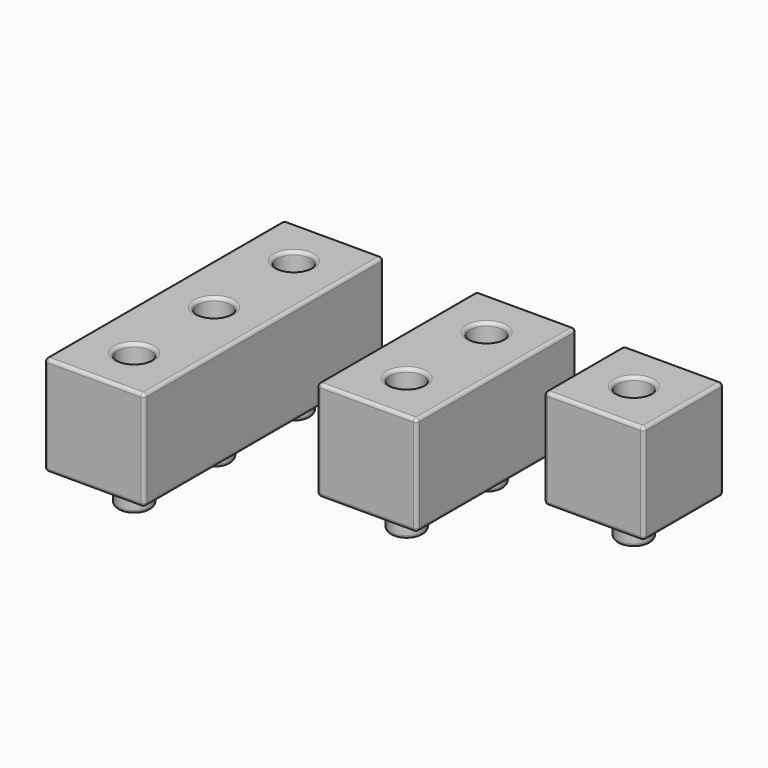
from build123d import *

# Parameters (mm, degrees)
F0_W          = 38.1
F0_H          = 114.3
F0_R          = 6.35
F1_DEPTH      = 38.1
F0_H_2        = 76.2
F2_DEPTH      = 38.1
F0_H_3        = 38.1
F3_DEPTH      = 38.1
F4_DEPTH      = 19.05
F4_DEPTH_BACK = 12.7
F5_R          = 1.27
F5_2_R        = 1.27
F5_3_R        = 1.27
F5_4_R        = 1.27


with BuildPart() as f1:
    # F0 (on Top) → F1 (new body)
    with BuildSketch(Plane.XY):
        with Locations((-19.05, 22.224996)):
            Rectangle(F0_W, F0_H)
        with Locations((-19.05, -15.875004)):
            Circle(F0_R, mode=Mode.SUBTRACT)
        with Locations((-19.05, 22.224996)):
            Circle(F0_R, mode=Mode.SUBTRACT)
        with Locations((-19.05, 60.324996)):
            Circle(F0_R, mode=Mode.SUBTRACT)
    extrude(amount=F1_DEPTH)

    # F5
    f5_edges = [f1.edges().sort_by_distance(p)[0] for p in [
        (0, 79.374996, 19.05),
        (-38.1, 79.374996, 19.05),
        (-19.05, 79.374996, 0),
        (-19.05, 79.374996, 38.1),
        (-38.1, -34.925004, 19.05),
        (-38.1, 22.224996, 0),
        (-38.1, 22.224996, 38.1),
        (0, -34.925004, 19.05),
        (0, 22.224996, 0),
        (0, 22.224996, 38.1),
        (-19.05, -34.925004, 0),
        (-19.05, -34.925004, 38.1),
        (-25.4, -15.875004, 38.1),
        (-25.4, 22.224996, 38.1),
        (-25.4, 60.324996, 38.1),
    ]]
    fillet(f5_edges, radius=F5_R)


with BuildPart() as f2:
    # F0 (on Top) → F2 (new body)
    with BuildSketch(Plane.XY):
        with Locations((54.470548, 41.274996)):
            Rectangle(F0_W, F0_H_2)
        with Locations((54.470548, 22.224996)):
            Circle(F0_R, mode=Mode.SUBTRACT)
        with Locations((54.470548, 60.324996)):
            Circle(F0_R, mode=Mode.SUBTRACT)
    extrude(amount=F2_DEPTH)

    # F5#2
    f5_2_edges = [f2.edges().sort_by_distance(p)[0] for p in [
        (73.520548, 79.374996, 19.05),
        (35.420548, 79.374996, 19.05),
        (54.470548, 79.374996, 0),
        (54.470548, 79.374996, 38.1),
        (35.420548, 3.174996, 19.05),
        (35.420548, 41.274996, 0),
        (35.420548, 41.274996, 38.1),
        (73.520548, 3.174996, 19.05),
        (73.520548, 41.274996, 0),
        (73.520548, 41.274996, 38.1),
        (54.470548, 3.174996, 0),
        (54.470548, 3.174996, 38.1),
        (48.120548, 60.324996, 38.1),
        (48.120548, 22.224996, 38.1),
    ]]
    fillet(f5_2_edges, radius=F5_2_R)


with BuildPart() as f3:
    # F0 (on Top) → F3 (new body)
    with BuildSketch(Plane.XY):
        with Locations((110.706499, 60.324996)):
            Rectangle(F0_W, F0_H_3)
        with Locations((110.706499, 60.324996)):
            Circle(F0_R, mode=Mode.SUBTRACT)
    extrude(amount=F3_DEPTH)

    # F5#3
    f5_3_edges = [f3.edges().sort_by_distance(p)[0] for p in [
        (129.756499, 79.374996, 19.05),
        (91.656499, 79.374996, 19.05),
        (110.706499, 79.374996, 0),
        (110.706499, 79.374996, 38.1),
        (91.656499, 41.274996, 19.05),
        (91.656499, 60.324996, 0),
        (91.656499, 60.324996, 38.1),
        (129.756499, 41.274996, 19.05),
        (129.756499, 60.324996, 0),
        (129.756499, 60.324996, 38.1),
        (110.706499, 41.274996, 0),
        (110.706499, 41.274996, 38.1),
        (104.356499, 60.324996, 38.1),
    ]]
    fillet(f5_3_edges, radius=F5_3_R)


with BuildPart() as f4:
    # F0 (on Top) → F4 (new body, two sides)
    with BuildSketch(Plane.XY) as f4_sk:
        with Locations((-19.05, 60.324996)):
            Circle(F0_R)
        with Locations((-19.05, 22.224996)):
            Circle(F0_R)
        with Locations((-19.05, -15.875004)):
            Circle(F0_R)
        with Locations((54.470548, 22.224996)):
            Circle(F0_R)
        with Locations((54.470548, 60.324996)):
            Circle(F0_R)
        with Locations((110.706499, 60.324996)):
            Circle(F0_R)
    extrude(amount=F4_DEPTH)
    extrude(f4_sk.sketch, amount=-F4_DEPTH_BACK)

    # F5#4
    f5_4_edges = [f4.edges().sort_by_distance(p)[0] for p in [
        (104.356499, 60.324996, 19.05),
        (104.356499, 60.324996, -12.7),
        (48.120548, 60.324996, -12.7),
        (48.120548, 60.324996, 19.05),
        (48.120548, 22.224996, 19.05),
        (48.120548, 22.224996, -12.7),
        (-25.4, 60.324996, -12.7),
        (-25.4, 60.324996, 19.05),
        (-25.4, 22.224996, 19.05),
        (-25.4, 22.224996, -12.7),
        (-25.4, -15.875004, -12.7),
        (-25.4, -15.875004, 19.05),
    ]]
    fillet(f5_4_edges, radius=F5_4_R)


solid = Compound([f1.part, f2.part, f3.part, f4.part])
